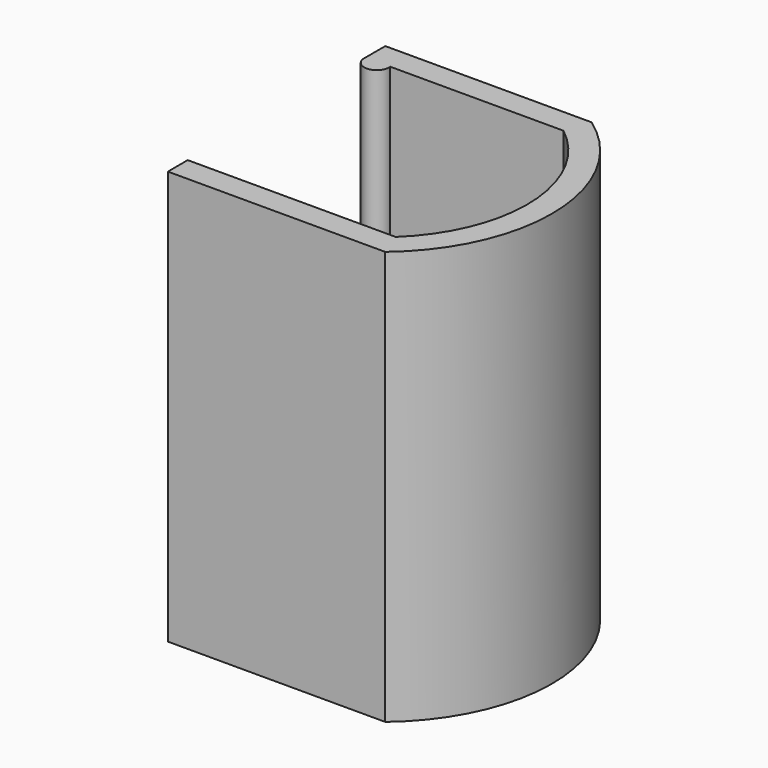
from build123d import *

# Parameters (mm, degrees)
F1_DEPTH = 50
F2_W     = 3
F2_H     = 50
F3_DEPTH = 15
F4_W     = 3
F4_H     = 50
F5_DEPTH = 15
F9_DEPTH = 50


with BuildPart() as f1:
    # F0 (on Top) → F1 (new body)
    with BuildSketch(Plane.XY):
        with BuildLine():
            Line((0, 13.42), (8.94, 13.42))
            ThreePointArc((8.94, 13.42), (15.665114, 0.270758), (10.125, -13.42))
            Line((10.125, -13.42), (0, -13.42))
            Line((0, -13.42), (0, -16.42))
            Line((0, -16.42), (11.265835, -16.42))
            ThreePointArc((11.265835, -16.42), (18.665454, 0.325994), (9.93816, 16.42))
            Line((9.93816, 16.42), (0, 16.42))
            Line((0, 16.42), (0, 13.42))
        make_face()
    extrude(amount=F1_DEPTH)

    # F2 (on face) → F3 (join)
    with BuildSketch(Plane(origin=(0, 0, 0), x_dir=(0, -1, 0), z_dir=(-1, 0, 0))):
        with Locations((-14.92, 25)):
            Rectangle(F2_W, F2_H)
    extrude(amount=F3_DEPTH)

    # F4 (on face) → F5 (join)
    with BuildSketch(Plane(origin=(0, 0, 0), x_dir=(0, -1, 0), z_dir=(-1, 0, 0))):
        with Locations((14.92, 25)):
            Rectangle(F4_W, F4_H)
    extrude(amount=F5_DEPTH)

    # F8 (on Top) → F9 (join)
    with BuildSketch(Plane.XY):
        with BuildLine():
            Line((-12, 13.42), (-15, 13.42))
            ThreePointArc((-15, 13.42), (-13.5, 11.744685), (-12, 13.42))
        make_face()
    extrude(amount=F9_DEPTH)


solid = f1.part
